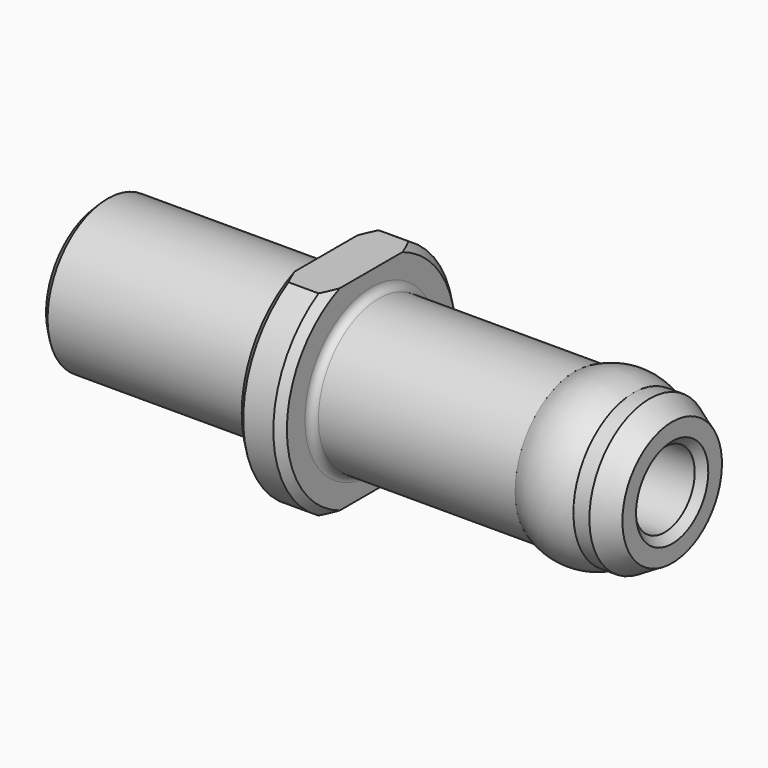
from build123d import *

# Parameters (mm, degrees)
F2_SIZE  = 0.5
F3_SIZE2 = 0.8660254038
F3_SIZE  = 1.5
F4_R     = 0.5
F5_W     = 5
F5_H     = 2.7889910041
F5_H_2   = 4.1100917986
F6_DEPTH = 12.5


with BuildPart() as f1:
    # F0 (on Front) → F1 (revolve)
    with BuildSketch(Plane.XZ):
        with BuildLine():
            Line((0, 5), (0, 2.5))
            Line((0, 2.5), (38, 2.5))
            Line((38, 2.5), (38, 5))
            Line((38, 5), (35.4364916731, 5))
            ThreePointArc((35.4364916731, 5), (33.5, 5.5), (31.5635083269, 5))
            Line((31.5635083269, 5), (18, 5))
            Line((18, 5), (18, 7.5))
            Line((18, 7.5), (15, 7.5))
            Line((15, 7.5), (15, 5))
            Line((15, 5), (0, 5))
        make_face()
    revolve(axis=Axis((21.8194629997, 0, 0), (1, 0, 0)))

    # F2
    f2_edges = [f1.edges().sort_by_distance(p)[0] for p in [
        (0, 0, -5),
        (18, 0, -7.5),
        (15, 0, -7.5),
        (0, 0, -2.5),
        (38, 0, -2.5),
    ]]
    chamfer(f2_edges, length=F2_SIZE)

    # F3
    f3_edges = [f1.edges().sort_by_distance(p)[0] for p in [
        (38, 0, -5),
    ]]
    f3_side = f1.faces().sort_by_distance((36.718246, 0, -5))[0]
    chamfer(f3_edges, length=F3_SIZE, length2=F3_SIZE2, reference=f3_side)

    # F4
    f4_edges = [f1.edges().sort_by_distance(p)[0] for p in [
        (18, 0, -5),
        (15, 0, -5),
    ]]
    fillet(f4_edges, radius=F4_R)

    # F5 (on Front) → F6 (cut, symmetric)
    with BuildSketch(Plane.XZ):
        with Locations((16.6406241506, 7.894495502)):
            Rectangle(F5_W, F5_H)
        with Locations((16.6406241506, -8.5550458993)):
            Rectangle(F5_W, F5_H_2)
    extrude(amount=F6_DEPTH, both=True, mode=Mode.SUBTRACT)


solid = f1.part
